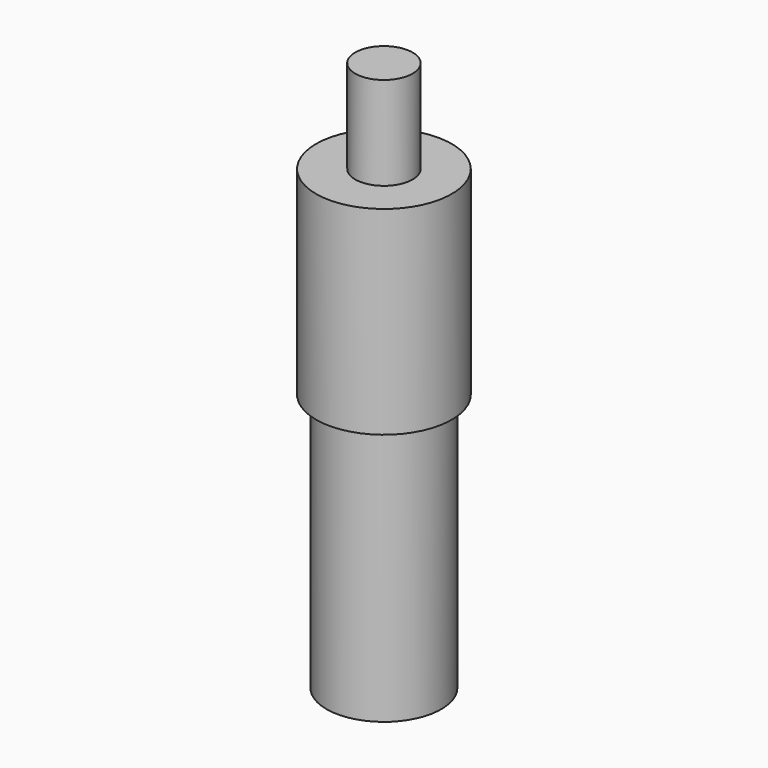
from build123d import *

# Parameters (mm, degrees)
F0_W   = 3.175
F0_H   = 10.3124
F0_W_2 = 6.35
F0_H_2 = 28.575


with BuildPart() as f1:
    # F0 (on Front) → F1 (revolve)
    with BuildSketch(Plane.XZ):
        with Locations((-1.5875, 5.1562)):
            Rectangle(F0_W, F0_H)
        Polygon((0, -21.9964), (0, 0), (-3.175, 0), (-7.5057, 0), (-7.5057, -21.9964), (-6.35, -21.9964), align=None)
        with Locations((-3.175, -36.2839)):
            Rectangle(F0_W_2, F0_H_2)
    revolve(axis=Axis((0, 0, 5.1562), (0, 0, 1)))


solid = f1.part
